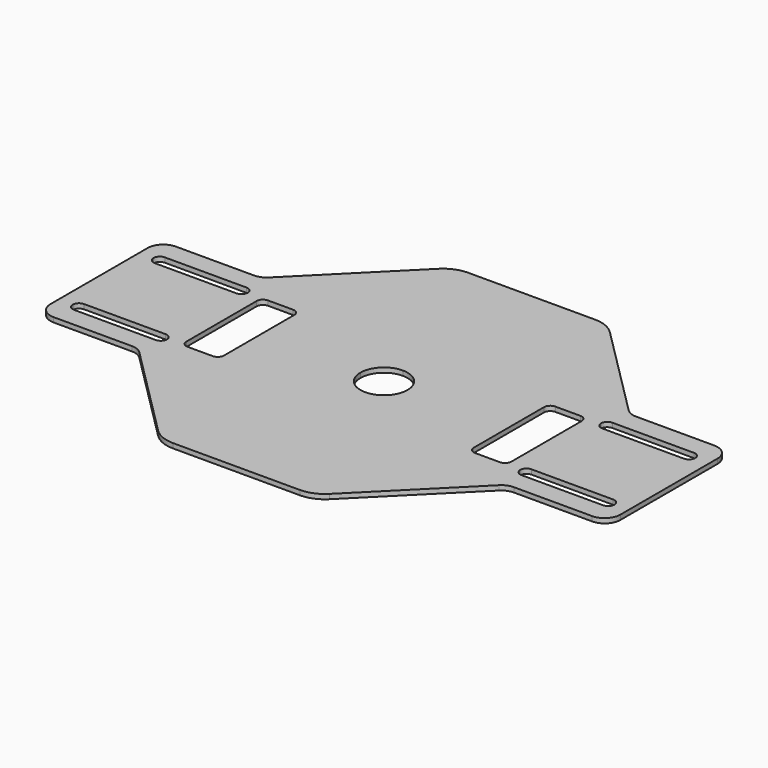
from build123d import *

# Parameters (mm, degrees)
F1_DEPTH = 1.5


with BuildPart() as f1:
    # F0 (on Top) → F1 (new body)
    with BuildSketch(Plane.XY):
        with BuildLine():
            Line((-58.75, -14.085047), (-58.75, 0))
            Line((-58.75, 0), (-90.75, 0))
            Line((-90.75, 0), (-90.75, -14.085047))
            Line((-90.75, -14.085047), (-90.75, -19.335047))
            ThreePointArc((-90.75, -19.335047), (-89.285534, -22.870581), (-85.75, -24.335047))
            Line((-85.75, -24.335047), (-80.50245, -24.335047))
            Line((-80.50245, -24.335047), (-80.50245, -18.085047))
            Line((-80.50245, -18.085047), (-84.25, -18.085047))
            ThreePointArc((-84.25, -18.085047), (-85.664214, -17.49926), (-86.25, -16.085047))
            ThreePointArc((-86.25, -16.085047), (-85.664214, -14.670833), (-84.25, -14.085047))
            Line((-84.25, -14.085047), (-58.75, -14.085047))
        make_face()
        with BuildLine():
            Line((90.75, 0), (58.75, 0))
            Line((58.75, 0), (51.75, 0))
            Line((51.75, 0), (51.75, -14))
            ThreePointArc((51.75, -14), (51.164214, -15.414214), (49.75, -16))
            Line((49.75, -16), (41.75, -16))
            ThreePointArc((41.75, -16), (40.335786, -15.414214), (39.75, -14))
            Line((39.75, -14), (39.75, 0))
            Line((39.75, 0), (7.5, 0))
            ThreePointArc((7.5, 0), (5.303301, -5.303301), (0, -7.5))
            Line((0, -7.5), (0, -58.75))
            Line((0, -58.75), (20.192911, -58.75))
            ThreePointArc((20.192911, -58.75), (24.019745, -57.988795), (27.263979, -55.821068))
            Line((27.263979, -55.821068), (57.285534, -25.799513))
            ThreePointArc((57.285534, -25.799513), (58.907651, -24.715649), (60.821068, -24.335047))
            Line((60.821068, -24.335047), (85.75, -24.335047))
            ThreePointArc((85.75, -24.335047), (89.285534, -22.870581), (90.75, -19.335047))
            Line((90.75, -19.335047), (90.75, 0))
        make_face()
        with BuildLine():
            Line((58.25, -14.085047), (58.75, -14.085047))
            Line((58.75, -14.085047), (84.25, -14.085047))
            ThreePointArc((84.25, -14.085047), (85.664214, -14.670833), (86.25, -16.085047))
            ThreePointArc((86.25, -16.085047), (85.664214, -17.49926), (84.25, -18.085047))
            Line((84.25, -18.085047), (58.75, -18.085047))
            Line((58.75, -18.085047), (58.25, -18.085047))
            ThreePointArc((58.25, -18.085047), (56.835786, -17.49926), (56.25, -16.085047))
            ThreePointArc((56.25, -16.085047), (56.835786, -14.670833), (58.25, -14.085047))
        make_face(mode=Mode.SUBTRACT)
        with BuildLine():
            Line((51.75, 0), (58.75, 0))
            Line((58.75, 0), (90.75, 0))
            Line((90.75, 0), (90.75, 19.335047))
            ThreePointArc((90.75, 19.335047), (89.285534, 22.870581), (85.75, 24.335047))
            Line((85.75, 24.335047), (60.821068, 24.335047))
            ThreePointArc((60.821068, 24.335047), (58.907651, 24.715649), (57.285534, 25.799513))
            Line((57.285534, 25.799513), (27.263979, 55.821068))
            ThreePointArc((27.263979, 55.821068), (24.019745, 57.988795), (20.192911, 58.75))
            Line((20.192911, 58.75), (0, 58.75))
            Line((0, 58.75), (0, 7.5))
            ThreePointArc((0, 7.5), (5.303301, 5.303301), (7.5, 0))
            Line((7.5, 0), (39.75, 0))
            Line((39.75, 0), (39.75, 14))
            ThreePointArc((39.75, 14), (40.335786, 15.414214), (41.75, 16))
            Line((41.75, 16), (49.75, 16))
            ThreePointArc((49.75, 16), (51.164214, 15.414214), (51.75, 14))
            Line((51.75, 14), (51.75, 0))
        make_face()
        with BuildLine():
            Line((58.25, 18.085047), (58.75, 18.085047))
            Line((58.75, 18.085047), (84.25, 18.085047))
            ThreePointArc((84.25, 18.085047), (85.664214, 17.49926), (86.25, 16.085047))
            ThreePointArc((86.25, 16.085047), (85.664214, 14.670833), (84.25, 14.085047))
            Line((84.25, 14.085047), (58.75, 14.085047))
            Line((58.75, 14.085047), (58.25, 14.085047))
            ThreePointArc((58.25, 14.085047), (56.835786, 14.670833), (56.25, 16.085047))
            ThreePointArc((56.25, 16.085047), (56.835786, 17.49926), (58.25, 18.085047))
        make_face(mode=Mode.SUBTRACT)
        with BuildLine():
            Line((0, -58.75), (0, -7.5))
            ThreePointArc((0, -7.5), (-5.303301, -5.303301), (-7.5, 0))
            Line((-7.5, 0), (-39.75, 0))
            Line((-39.75, 0), (-39.75, -14))
            ThreePointArc((-39.75, -14), (-40.335786, -15.414214), (-41.75, -16))
            Line((-41.75, -16), (-49.75, -16))
            ThreePointArc((-49.75, -16), (-51.164214, -15.414214), (-51.75, -14))
            Line((-51.75, -14), (-51.75, 0))
            Line((-51.75, 0), (-58.75, 0))
            Line((-58.75, 0), (-58.75, -14.085047))
            Line((-58.75, -14.085047), (-58.25, -14.085047))
            ThreePointArc((-58.25, -14.085047), (-56.835786, -14.670833), (-56.25, -16.085047))
            ThreePointArc((-56.25, -16.085047), (-56.835786, -17.49926), (-58.25, -18.085047))
            Line((-58.25, -18.085047), (-58.75, -18.085047))
            Line((-58.75, -18.085047), (-80.50245, -18.085047))
            Line((-80.50245, -18.085047), (-80.50245, -24.335047))
            Line((-80.50245, -24.335047), (-60.821068, -24.335047))
            ThreePointArc((-60.821068, -24.335047), (-58.907651, -24.715649), (-57.285534, -25.799513))
            Line((-57.285534, -25.799513), (-27.263979, -55.821068))
            ThreePointArc((-27.263979, -55.821068), (-24.019745, -57.988795), (-20.192911, -58.75))
            Line((-20.192911, -58.75), (0, -58.75))
        make_face()
        with BuildLine():
            ThreePointArc((-7.5, 0), (-5.303301, 5.303301), (0, 7.5))
            Line((0, 7.5), (0, 58.75))
            Line((0, 58.75), (-20.192911, 58.75))
            ThreePointArc((-20.192911, 58.75), (-24.019745, 57.988795), (-27.263979, 55.821068))
            Line((-27.263979, 55.821068), (-57.285534, 25.799513))
            ThreePointArc((-57.285534, 25.799513), (-58.907651, 24.715649), (-60.821068, 24.335047))
            Line((-60.821068, 24.335047), (-85.75, 24.335047))
            ThreePointArc((-85.75, 24.335047), (-89.285534, 22.870581), (-90.75, 19.335047))
            Line((-90.75, 19.335047), (-90.75, 0))
            Line((-90.75, 0), (-58.75, 0))
            Line((-58.75, 0), (-51.75, 0))
            Line((-51.75, 0), (-51.75, 14))
            ThreePointArc((-51.75, 14), (-51.164214, 15.414214), (-49.75, 16))
            Line((-49.75, 16), (-41.75, 16))
            ThreePointArc((-41.75, 16), (-40.335786, 15.414214), (-39.75, 14))
            Line((-39.75, 14), (-39.75, 0))
            Line((-39.75, 0), (-7.5, 0))
        make_face()
        with BuildLine():
            Line((-58.25, 14.085047), (-58.75, 14.085047))
            Line((-58.75, 14.085047), (-84.25, 14.085047))
            ThreePointArc((-84.25, 14.085047), (-85.664214, 14.670833), (-86.25, 16.085047))
            ThreePointArc((-86.25, 16.085047), (-85.664214, 17.49926), (-84.25, 18.085047))
            Line((-84.25, 18.085047), (-58.75, 18.085047))
            Line((-58.75, 18.085047), (-58.25, 18.085047))
            ThreePointArc((-58.25, 18.085047), (-56.835786, 17.49926), (-56.25, 16.085047))
            ThreePointArc((-56.25, 16.085047), (-56.835786, 14.670833), (-58.25, 14.085047))
        make_face(mode=Mode.SUBTRACT)
    extrude(amount=F1_DEPTH)


solid = f1.part
